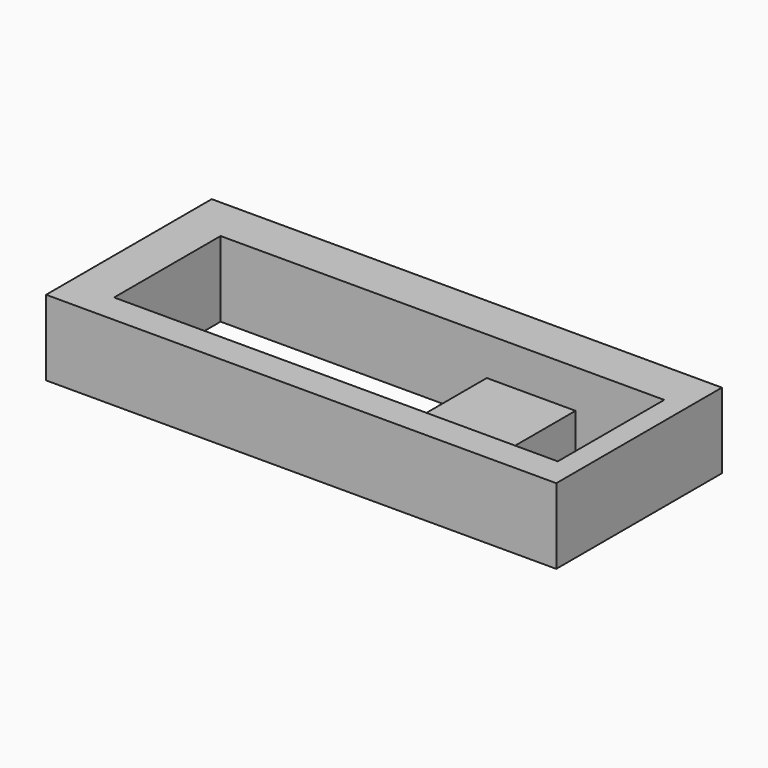
from build123d import *

# Parameters (mm, degrees)
F0_W     = 34.5
F0_H     = 14
F0_W_2   = 18
F0_H_2   = 9
F0_W_3   = 6
F1_DEPTH = 5.1
F2_W     = 6
F2_H     = 9
F3_DEPTH = 2.6


with BuildPart() as f1:
    # F0 (on Top) → F1 (new body)
    with BuildSketch(Plane.XY):
        with Locations((17.25, 7)):
            Rectangle(F0_W, F0_H)
        with Locations((12, 6.5)):
            Rectangle(F0_W_2, F0_H_2, mode=Mode.SUBTRACT)
        with Locations((30, 6.5)):
            Rectangle(F0_W_3, F0_H_2, mode=Mode.SUBTRACT)
    extrude(amount=F1_DEPTH)

    # F2 (on face) → F3 (cut)
    with BuildSketch(Plane.XY.offset(5.1)):
        with Locations((24, 6.5)):
            Rectangle(F2_W, F2_H)
    extrude(amount=-F3_DEPTH, mode=Mode.SUBTRACT)


solid = f1.part
